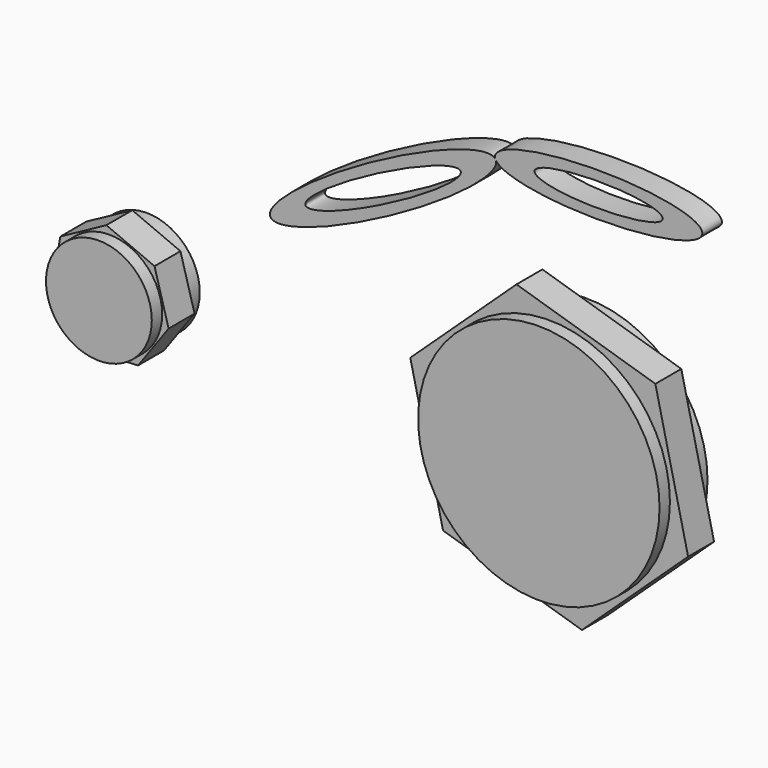
from build123d import *

# Parameters (mm, degrees)
F0_R          = 20.730113571
F1_DEPTH      = 12.7
F0_R_2        = 47.3078923064
F2_DEPTH      = 17.78
F2_DEPTH_BACK = 5.7093314826
F4_DEPTH      = 9.6123982221


with BuildPart() as f1:
    # F0 (on Front) → F1 (new body)
    with BuildSketch(Plane.XZ):
        Polygon((11.2682855074, -20.7635520264), (23.2592597604, -4.1359625757), (17.7355370114, 15.6060910528), (-1.1434068462, 23.5964398122), (-19.1613420274, 13.8181881134), (-22.7503958417, -6.3654410744), (-9.2079375638, -21.7557633019), align=None)
        Circle(F0_R, mode=Mode.SUBTRACT)
    extrude(amount=F1_DEPTH)


with BuildPart() as f1b:
    # F0 (on Front) → F1, piece 2 (new body)
    with BuildSketch(Plane.XZ):
        Polygon((185.2231494194, -55.4486300133), (226.8299162388, -16.6164040565), (214.0036054844, 38.8322259568), (159.5705279106, 55.4486300133), (117.9637610912, 16.6164040565), (130.7900718456, -38.8322259568), align=None)
        with Locations((172.396838665, 0)):
            Circle(F0_R_2, mode=Mode.SUBTRACT)
    extrude(amount=F1_DEPTH)


with BuildPart() as f2:
    # F0 (on Front) → F2 (new body, two sides)
    with BuildSketch(Plane.XZ) as f2_sk:
        Circle(F0_R)
    extrude(amount=F2_DEPTH)
    extrude(f2_sk.sketch, amount=-F2_DEPTH_BACK)


with BuildPart() as f2b:
    # F0 (on Front) → F2, piece 2 (new body, two sides)
    with BuildSketch(Plane.XZ) as f2_2_sk:
        with Locations((172.396838665, 0)):
            Circle(F0_R_2)
    extrude(amount=F2_DEPTH)
    extrude(f2_2_sk.sketch, amount=-F2_DEPTH_BACK)


with BuildPart() as f4:
    # F3 (on Front) → F4 (new body)
    with BuildSketch(Plane.XZ):
        with BuildLine():
            add(Edge.make_bspline(
                [(149.1094218068, 93.4406164812), (154.6413458405, 85.6056569344), (192.2793466359, 86.1877237137), (229.9173474312, 86.7697904929), (229.9173474312, 94.6903005242)],
                knots=[3.2887023648, 3.2887023648, 3.2887023648, 4.785943836, 4.785943836, 6.2831853072, 6.2831853072, 6.2831853072], degree=2, weights=[1, 0.7326283327, 1, 0.7326283327, 1]))
            add(Edge.make_bspline(
                [(229.9173474312, 94.6903005242), (229.9173474312, 103.5239405817), (187.8528657988, 103.2105636581), (145.7883841663, 102.8971867345), (148.7728928762, 94.0857810212)],
                knots=[0, 0, 0, 1.606279173, 1.606279173, 3.2125583461, 3.2125583461, 3.2125583461], degree=2, weights=[1, 0.6944510778, 1, 0.6944510778, 1]))
            add(Edge.make_bspline(
                [(148.962944746, 93.8134789467), (148.8833945922, 93.9582027434), (148.7728928762, 94.0857810212)],
                knots=[0, 0, 0, 0.0374890809, 0.0374890809, 0.0374890809], degree=2, weights=[1, 0.9998243262, 1]))
            add(Edge.make_bspline(
                [(149.1094218068, 93.4406164812), (149.0586850223, 93.6393008261), (148.962944746, 93.8134789467)],
                knots=[6.2380687825, 6.2380687825, 6.2380687825, 6.2831853072, 6.2831853072, 6.2831853072], degree=2, weights=[1, 0.9997455732, 1]))
        make_face()
        with BuildLine():
            add(Edge.make_bspline(
                [(214.4278287888, 94.6903005242), (214.4278287888, 102.8091515427), (176.727078855, 98.7497260335), (139.0263289213, 94.6903005242), (176.727078855, 90.630875015), (214.4278287888, 86.5714495058), (214.4278287888, 94.6903005242)],
                knots=[0, 0, 0, 2.0943951024, 2.0943951024, 4.1887902048, 4.1887902048, 6.2831853072, 6.2831853072, 6.2831853072], degree=2, weights=[1, 0.5, 1, 0.5, 1, 0.5, 1]))
        make_face(mode=Mode.SUBTRACT)
        with BuildLine():
            add(Edge.make_bspline(
                [(148.962944746, 93.8134789467), (148.8833945922, 93.9582027434), (148.7728928762, 94.0857810212)],
                knots=[0, 0, 0, 0.0374890809, 0.0374890809, 0.0374890809], degree=2, weights=[1, 0.9998243262, 1]))
            add(Edge.make_bspline(
                [(148.7728928762, 94.0857810212), (148.8826102275, 93.761853638), (149.1094218068, 93.4406164812)],
                knots=[3.2125583461, 3.2125583461, 3.2125583461, 3.2887023648, 3.2887023648, 3.2887023648], degree=2, weights=[1, 0.9992753486, 1]))
            add(Edge.make_bspline(
                [(149.1094218068, 93.4406164812), (149.0586850223, 93.6393008261), (148.962944746, 93.8134789467)],
                knots=[6.2380687825, 6.2380687825, 6.2380687825, 6.2831853072, 6.2831853072, 6.2831853072], degree=2, weights=[1, 0.9997455732, 1]))
        make_face()
        with BuildLine():
            add(Edge.make_bspline(
                [(148.7728928762, 94.0857810212), (148.8826102275, 93.761853638), (149.1094218068, 93.4406164812)],
                knots=[3.2125583461, 3.2125583461, 3.2125583461, 3.2887023648, 3.2887023648, 3.2887023648], degree=2, weights=[1, 0.9992753486, 1]))
            add(Edge.make_bspline(
                [(148.7728928762, 94.0857810212), (138.8804733248, 105.5069416545), (78.7344910031, 63.8662788682), (18.5885086814, 22.2256160818), (85.7359691391, 50.4436426255), (152.8834295967, 78.6616691692), (149.1094218068, 93.4406164812)],
                knots=[0.0374890809, 0.0374890809, 0.0374890809, 2.1043489814, 2.1043489814, 4.171208882, 4.171208882, 6.2380687825, 6.2380687825, 6.2380687825], degree=2, weights=[1, 0.5118753295, 1, 0.5118753295, 1, 0.5118753295, 1]))
        make_face()
        with BuildLine():
            add(Edge.make_bspline(
                [(135.2269947529, 85.3381156921), (131.2721693717, 92.9548139368), (87.6579743724, 65.4738915461), (44.0437793732, 37.9929691553), (91.6127997536, 57.8571933014), (139.1818201341, 77.7214174475), (135.2269947529, 85.3381156921)],
                knots=[0, 0, 0, 2.0943951024, 2.0943951024, 4.1887902048, 4.1887902048, 6.2831853072, 6.2831853072, 6.2831853072], degree=2, weights=[1, 0.5, 1, 0.5, 1, 0.5, 1]))
        make_face(mode=Mode.SUBTRACT)
    extrude(amount=F4_DEPTH)


solid = Compound([f1.part, f1b.part, f2.part, f2b.part, f4.part])
